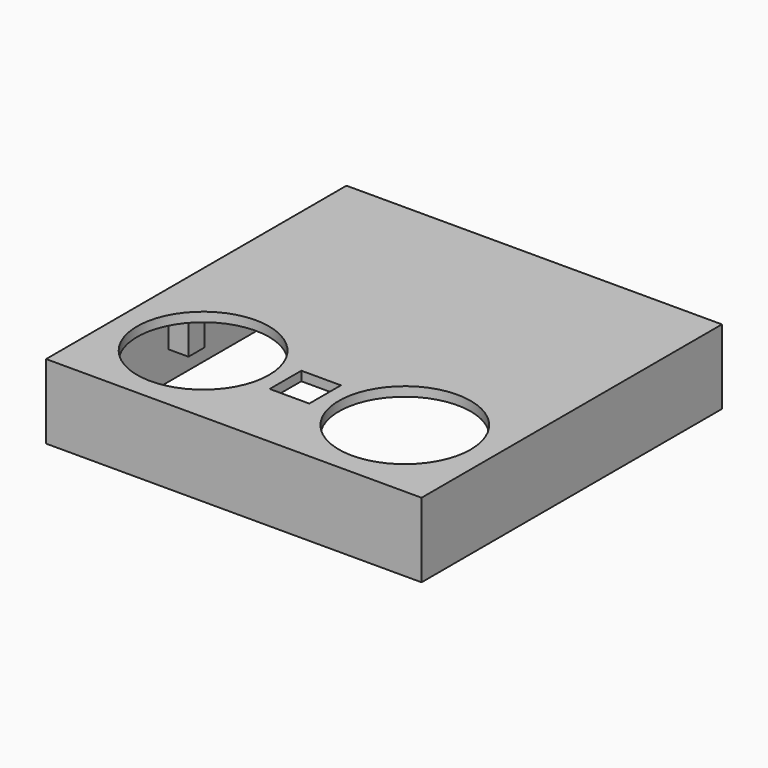
from build123d import *

# Parameters (mm, degrees)
F0_W     = 23
F0_H     = 23
F0_R     = 8.5
F1_DEPTH = 0.6
F3_DEPTH = 9.6
F4_W     = 2.6
F4_H     = 2.6
F4_R     = 0.6
F5_DEPTH = 4.7
F6_W     = 8
F6_H     = 3
F7_DEPTH = 1.4


with BuildPart() as f1:
    # F0 (on Top) → F1 (new body, symmetric)
    with BuildSketch(Plane.XY):
        with Locations((-11.5, 11.5)):
            Rectangle(F0_W, F0_H)
        Polygon((0, -10.131208), (0, 0), (-23, 0), (-23, -23), (0, -23), (0, -15.231208), (-2.55, -15.231208), (-2.55, -10.131208), align=None)
        with Locations((-13, -12.9)):
            Circle(F0_R, mode=Mode.SUBTRACT)
        with Locations((11.5, 11.5)):
            Rectangle(F0_W, F0_H)
        Polygon((23, 0), (0, 0), (0, -10.131208), (2.55, -10.131208), (2.55, -15.231208), (0, -15.231208), (0, -23), (23, -23), align=None)
        with Locations((13, -12.9)):
            Circle(F0_R, mode=Mode.SUBTRACT)
    extrude(amount=F1_DEPTH, both=True)

    # F2 (on face) → F3 (join)
    with BuildSketch(Plane.XY.offset(0.6)):
        Polygon((-23, 23), (0, 23), (0, 24.2), (-24.2, 24.2), (-24.2, -24.2), (0, -24.2), (0, -23), (-23, -23), align=None)
        Polygon((0, 23), (23, 23), (23, -23), (0, -23), (0, -24.2), (24.2, -24.2), (24.2, 24.2), (0, 24.2), align=None)
    extrude(amount=-F3_DEPTH)

    # F4 (on face) → F5 (join)
    with BuildSketch(Plane(origin=(0, 0, -0.6), x_dir=(1, 0, 0), z_dir=(0, 0, -1))):
        with Locations((21.7, 21.7)):
            Rectangle(F4_W, F4_H)
        with Locations((21.7, 21.7)):
            Circle(F4_R, mode=Mode.SUBTRACT)
        with Locations((-21.7, 21.7)):
            Rectangle(F4_W, F4_H)
        with Locations((-21.7, 21.7)):
            Circle(F4_R, mode=Mode.SUBTRACT)
        with Locations((-21.7, 4.7)):
            Rectangle(F4_W, F4_H)
        with Locations((-21.7, 4.7)):
            Circle(F4_R, mode=Mode.SUBTRACT)
        with Locations((21.7, 4.7)):
            Rectangle(F4_W, F4_H)
        with Locations((21.7, 4.7)):
            Circle(F4_R, mode=Mode.SUBTRACT)
    extrude(amount=F5_DEPTH)

    # F6 (on face) → F7 (cut)
    with BuildSketch(Plane(origin=(-24.2, 0, 0), x_dir=(0, -1, 0), z_dir=(-1, 0, 0))):
        with Locations((-14.2, -2.3)):
            Rectangle(F6_W, F6_H)
    extrude(amount=-F7_DEPTH, mode=Mode.SUBTRACT)


solid = f1.part
